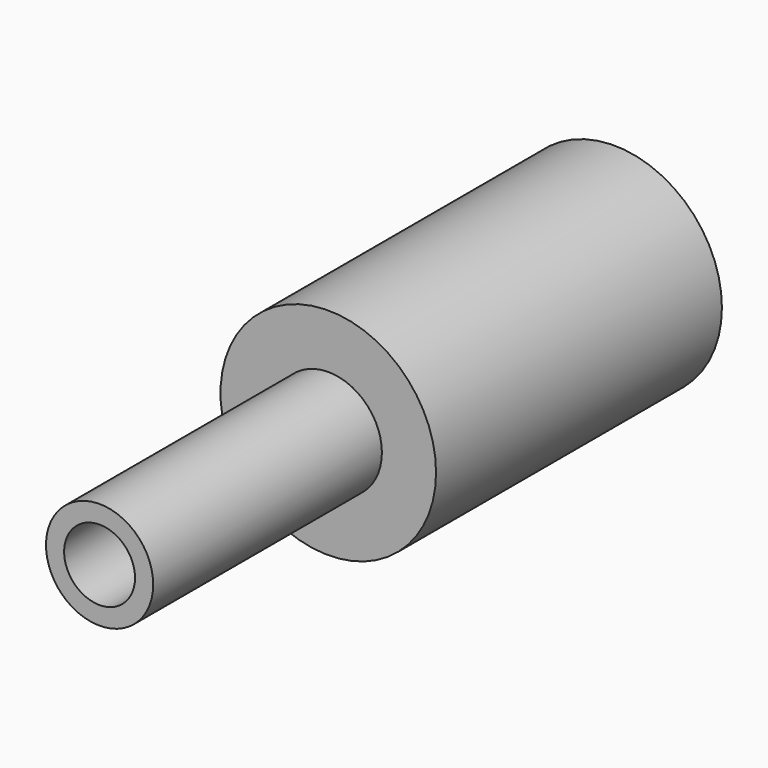
from build123d import *

# Parameters (mm, degrees)
F0_R     = 9.5758
F1_DEPTH = 31.75
F2_R     = 7.9629
F3_DEPTH = 25.4
F4_R     = 4.7625
F5_DEPTH = 25.4
F6_R     = 3.1496
F7_DEPTH = 25.4


with BuildPart() as f1:
    # F0 (on Front) → F1 (new body)
    with BuildSketch(Plane.XZ):
        Circle(F0_R)
    extrude(amount=-F1_DEPTH)

    # F2 (on face) → F3 (cut)
    with BuildSketch(Plane(origin=(0, 31.75, 0), x_dir=(-1, 0, 0), z_dir=(0, 1, 0))):
        Circle(F2_R)
    extrude(amount=-F3_DEPTH, mode=Mode.SUBTRACT)

    # F4 (on face) → F5 (join)
    with BuildSketch(Plane.XZ):
        Circle(F4_R)
    extrude(amount=F5_DEPTH)

    # F6 (on face) → F7 (cut)
    with BuildSketch(Plane.XZ.offset(25.4)):
        Circle(F6_R)
    extrude(amount=-F7_DEPTH, mode=Mode.SUBTRACT)


solid = f1.part
